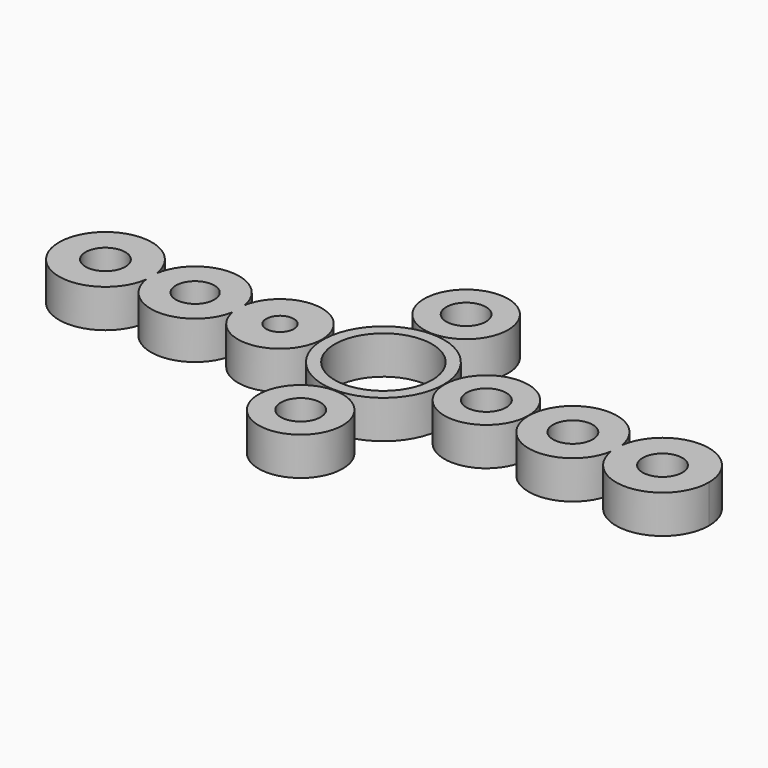
from build123d import *

# Parameters (mm, degrees)
F0_R     = 13.6831009892
F0_R_2   = 11
F1_DEPTH = 8.636
F0_R_3   = 9.5
F0_R_4   = 4.4926631
F0_R_5   = 3.1202264588
F0_R_6   = 4.3522325289
F0_R_7   = 4.4926613023


with BuildPart() as f1:
    # F0 (on Top) → F1 (new body)
    with BuildSketch(Plane.XY):
        Circle(F0_R)
        Circle(F0_R_2, mode=Mode.SUBTRACT)
    extrude(amount=-F1_DEPTH)


with BuildPart() as f1b:
    # F0 (on Top) → F1, piece 2 (new body)
    with BuildSketch(Plane.XY):
        with Locations((23.2812466269, 0)):
            Circle(F0_R_3)
        with Locations((23.2812466269, 0)):
            Circle(F0_R_4, mode=Mode.SUBTRACT)
    extrude(amount=-F1_DEPTH)


with BuildPart() as f1c:
    # F0 (on Top) → F1, piece 3 (new body)
    with BuildSketch(Plane.XY):
        with BuildLine():
            ThreePointArc((-32.7230773483, -1.7266154839), (-22.5143753138, -9.4603615745), (-13.8813002706, 0))
            ThreePointArc((-13.8813002706, 0), (-22.5143753138, 9.4603615745), (-32.7230773483, 1.7266154839))
            ThreePointArc((-32.7230773483, 1.7266154839), (-32.6105071995, 0.8665675718), (-32.572889477, 0))
            ThreePointArc((-32.572889477, 0), (-32.6105071995, -0.8665675718), (-32.7230773483, -1.7266154839))
        make_face()
        with Locations((-23.3813002706, 0)):
            Circle(F0_R_5, mode=Mode.SUBTRACT)
        with BuildLine():
            ThreePointArc((-32.572889477, 0), (-32.6105071995, 0.8665675718), (-32.7230773483, 1.7266154839))
            ThreePointArc((-32.7230773483, 1.7266154839), (-32.8813002706, 0), (-32.7230773483, -1.7266154839))
            ThreePointArc((-32.7230773483, -1.7266154839), (-32.6105071995, -0.8665675718), (-32.572889477, 0))
        make_face()
        with BuildLine():
            ThreePointArc((-32.7230773483, -1.7266154839), (-32.8813002706, 0), (-32.7230773483, 1.7266154839))
            ThreePointArc((-32.7230773483, 1.7266154839), (-42.6769106803, 9.9994589648), (-52.456489006, 1.521335055))
            ThreePointArc((-52.456489006, 1.521335055), (-52.3734279127, 0.7626821615), (-52.3456920385, 0))
            ThreePointArc((-52.3456920385, 0), (-52.3734279127, -0.7626821615), (-52.456489006, -1.521335055))
            ThreePointArc((-52.456489006, -1.521335055), (-42.6769106803, -9.9994589648), (-32.7230773483, -1.7266154839))
        make_face()
        with Locations((-42.572889477, 0)):
            Circle(F0_R_6, mode=Mode.SUBTRACT)
        with BuildLine():
            ThreePointArc((-52.3456920385, 0), (-52.3734279127, 0.7626821615), (-52.456489006, 1.521335055))
            ThreePointArc((-52.456489006, 1.521335055), (-52.572889477, 0), (-52.456489006, -1.521335055))
            ThreePointArc((-52.456489006, -1.521335055), (-52.3734279127, -0.7626821615), (-52.3456920385, 0))
        make_face()
        with BuildLine():
            ThreePointArc((-52.456489006, -1.521335055), (-52.572889477, 0), (-52.456489006, 1.521335055))
            ThreePointArc((-52.456489006, 1.521335055), (-73.3456920385, 0), (-52.456489006, -1.521335055))
        make_face()
        with Locations((-62.8456920385, 0)):
            Circle(F0_R_7, mode=Mode.SUBTRACT)
    extrude(amount=-F1_DEPTH)


with BuildPart() as f1d:
    # F0 (on Top) → F1, piece 4 (new body)
    with BuildSketch(Plane.XY):
        with Locations((0, 23.3813021332)):
            Circle(F0_R_3)
        with Locations((0, 23.3813021332)):
            Circle(F0_R_4, mode=Mode.SUBTRACT)
    extrude(amount=-F1_DEPTH)


with BuildPart() as f1e:
    # F0 (on Top) → F1, piece 5 (new body)
    with BuildSketch(Plane.XY):
        with Locations((0, -23.3813021332)):
            Circle(F0_R_3)
        with Locations((0, -23.3813021332)):
            Circle(F0_R_4, mode=Mode.SUBTRACT)
    extrude(amount=-F1_DEPTH)


with BuildPart() as f1f:
    # F0 (on Top) → F1, piece 6 (new body)
    with BuildSketch(Plane.XY):
        with BuildLine():
            ThreePointArc((52.7267904357, -1.5213474578), (52.8140497549, -0.7628970444), (52.8431928158, 0))
            ThreePointArc((52.8431928158, 0), (52.8140497549, 0.7628970444), (52.7267904357, 1.5213474578))
            ThreePointArc((52.7267904357, 1.5213474578), (52.615991652, 0), (52.7267904357, -1.5213474578))
        make_face()
        with BuildLine():
            ThreePointArc((52.7267904357, 1.5213474578), (52.8140497549, 0.7628970444), (52.8431928158, 0))
            ThreePointArc((52.8431928158, 0), (52.8140497549, -0.7628970444), (52.7267904357, -1.5213474578))
            ThreePointArc((52.7267904357, -1.5213474578), (63.8786800644, -10.4722636706), (73.615991652, 0))
            ThreePointArc((73.615991652, 0), (63.8786800644, 10.4722636706), (52.7267904357, 1.5213474578))
        make_face()
        with Locations((63.115991652, 0)):
            Circle(F0_R_4, mode=Mode.SUBTRACT)
        with BuildLine():
            ThreePointArc((52.7267904357, -1.5213474578), (52.615991652, 0), (52.7267904357, 1.5213474578))
            ThreePointArc((52.7267904357, 1.5213474578), (32.8431928158, 0), (52.7267904357, -1.5213474578))
        make_face()
        with Locations((42.8431928158, 0)):
            Circle(F0_R_4, mode=Mode.SUBTRACT)
    extrude(amount=-F1_DEPTH)


solid = Compound([f1.part, f1b.part, f1c.part, f1d.part, f1e.part, f1f.part])
